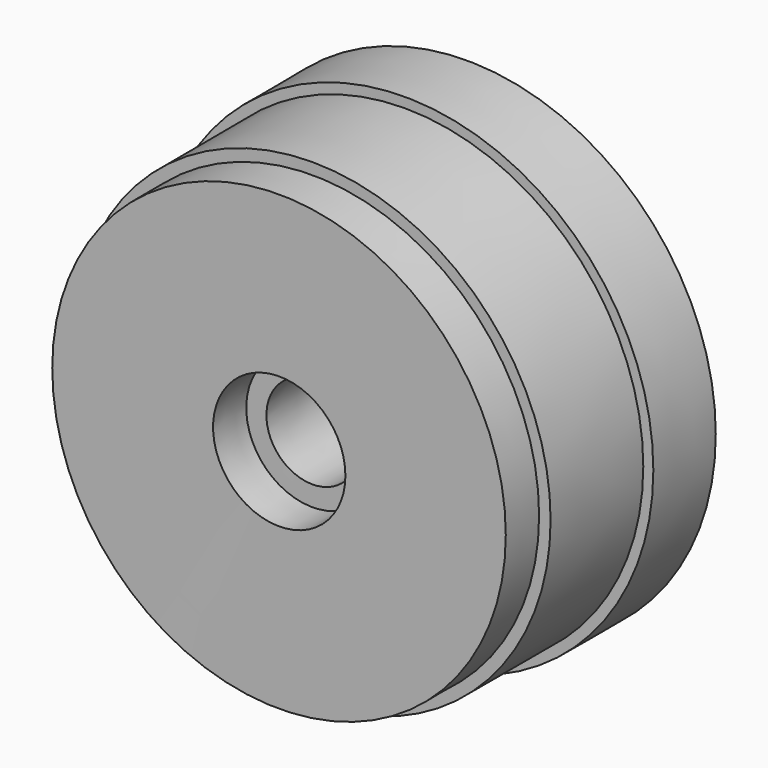
from build123d import *

# Parameters (mm, degrees)
F0_W = 81.9674320519
F0_H = 21.2870649993


with BuildPart() as f1:
    # F0 (on Top) → F1 (revolve)
    with BuildSketch(Plane.XY):
        Polygon((52.8506450355, 11.0105508938), (-45.26559636, 11.0105508938), (-45.26559636, -48.2017435133), (-34.9890813231, -48.2017435133), (46.9783507288, -48.2017435133), (52.8506450355, -48.2017435133), align=None)
        with Locations((5.9946347028, -58.845276013)):
            Rectangle(F0_W, F0_H)
        Polygon((57.9889006913, 50.8932135999), (-50.8932098746, 50.8932135999), (-50.8932098746, 11.0105508938), (-45.26559636, 11.0105508938), (52.8506450355, 11.0105508938), (57.9889006913, 11.0105508938), align=None)
    revolve(axis=Axis((-68.8771121204, -2.5691278279, 0), (0.0018281924, -0.9999983289, 0)))


solid = f1.part
